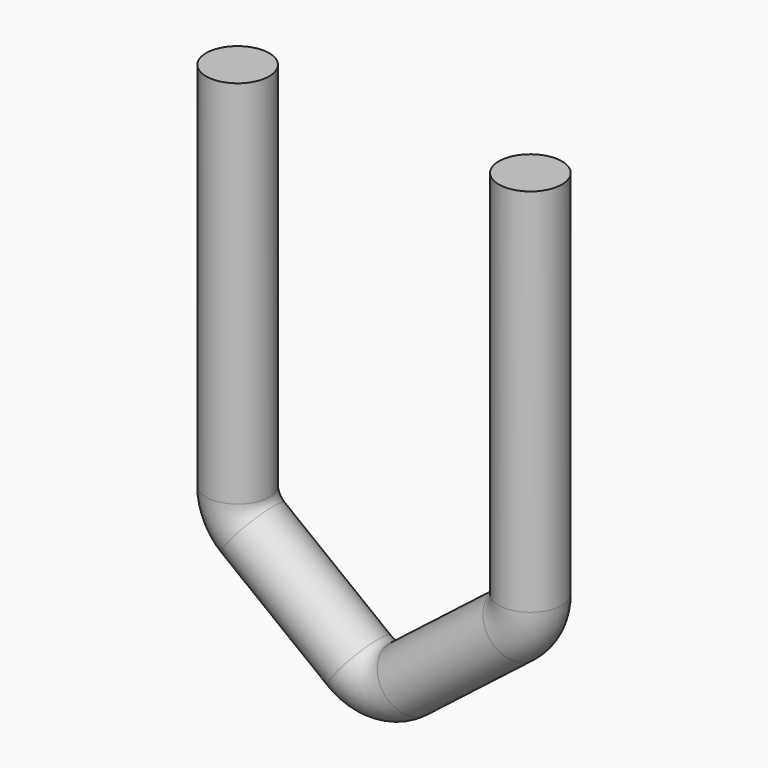
from build123d import *

# Parameters (mm, degrees)
F2_R = 3.875


with BuildPart() as f3:
    # F3: sweep along a path in F0
    with BuildLine(Plane.XZ) as f3_path:
        Line((18, 62), (18, 16.4454190283))
        ThreePointArc((18, 16.4454190283), (17.4915763011, 14.2486617975), (16.0697030676, 12.4986579414))
        Line((16.0697030676, 12.4986579414), (3.0697030676, 2.3875468303))
        ThreePointArc((3.0697030676, 2.3875468303), (0, 1.3343079172), (-3.0697030676, 2.3875468303))
        Line((-3.0697030676, 2.3875468303), (-16.0697030676, 12.4986579414))
        ThreePointArc((-16.0697030676, 12.4986579414), (-17.4915763011, 14.2486617975), (-18, 16.4454190283))
        Line((-18, 16.4454190283), (-18, 62))
    # F2 (on offset) → F3 (sweep)
    with BuildSketch(Plane.XY.offset(62)):
        with Locations((18, 0)):
            Circle(F2_R)
    sweep(path=f3_path.line)


solid = f3.part
